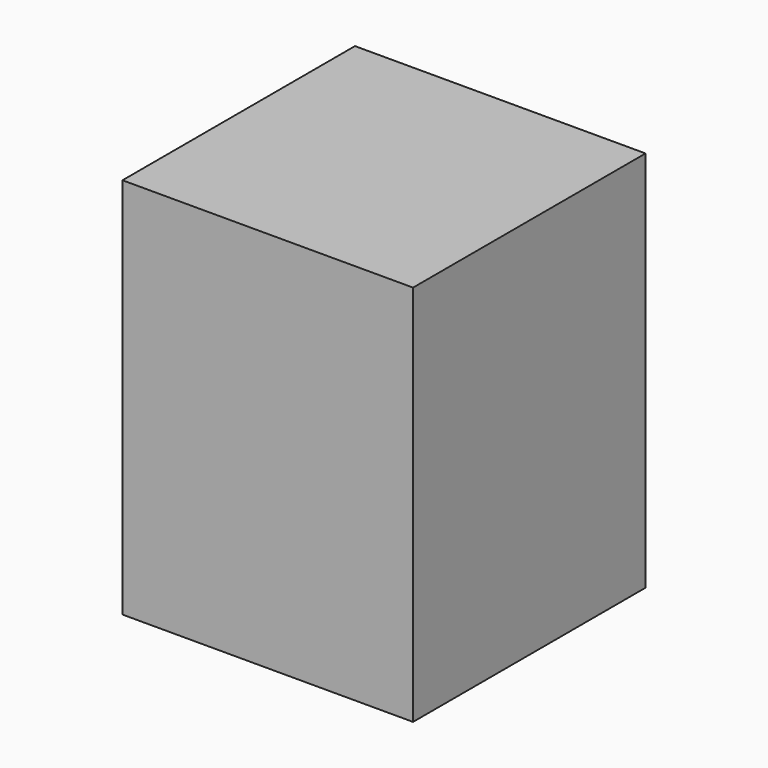
from build123d import *

# Parameters (mm, degrees)
SKETCH_W            = 19
SKETCH_H            = 19
PAD_DEPTH           = 25
PAD001_DEPTH        = 0.4
LINEARPATTERN_COUNT = 2
LINEARPATTERN_PITCH = 12
PAD002_DEPTH        = 0.4


with BuildPart() as part:
    # Sketch → Pad (new body)
    with BuildSketch(Plane.XY):
        Rectangle(SKETCH_W, SKETCH_H)
    extrude(amount=PAD_DEPTH)

    # Sketch001 → Pad001 (join)
    with BuildSketch(Plane.XY):
        with BuildLine():
            Line((-9.183343, 4.331109), (-5.818792, 0.321394))
            ThreePointArc((-5.818792, -0.321394), (-5.701815, 0), (-5.818792, 0.321394))
            Line((-5.818792, -0.321394), (-9.183343, -4.331109))
            ThreePointArc((-9.183343, -4.331109), (-9.299845, -4.674313), (-9.153874, -5.006057))
            Line((-9.153874, -5.006057), (-8.444067, -5.715864))
            ThreePointArc((-8.444067, -5.715864), (-8.068704, -5.861835), (-7.707491, -5.683705))
            Line((-7.707491, -5.683705), (-3.207978, -0.321394))
            ThreePointArc((-3.207978, -0.321394), (-3.091, 0), (-3.207978, 0.321394))
            Line((-3.207978, 0.321394), (-7.707491, 5.683705))
            ThreePointArc((-7.707491, 5.683705), (-8.068704, 5.861835), (-8.444067, 5.715864))
            Line((-8.444067, 5.715864), (-9.153874, 5.006057))
            ThreePointArc((-9.153874, 5.006057), (-9.299845, 4.674313), (-9.183343, 4.331109))
        make_face()
    pad001 = extrude(amount=-PAD001_DEPTH)

    # LinearPattern: Pad001 ×2
    with Locations(*[(i * LINEARPATTERN_PITCH, 0, 0) for i in range(1, LINEARPATTERN_COUNT)]):
        add(pad001)

    # Sketch002 → Pad002 (join)
    with BuildSketch(Plane(origin=(0, 0, 0), x_dir=(1, 0, 0), z_dir=(0, 0, -1))):
        with BuildLine():
            ThreePointArc((-5.15, 6), (-5.503553, 5.853553), (-5.65, 5.5))
            Line((-5.65, 4.5), (-5.65, 5.5))
            ThreePointArc((-5.65, 4.5), (-5.503553, 4.146447), (-5.15, 4))
            Line((1.85, 4), (-5.15, 4))
            ThreePointArc((1.85, 4), (2.203553, 4.146447), (2.35, 4.5))
            Line((2.35, 5.5), (2.35, 4.5))
            ThreePointArc((2.35, 5.5), (2.203553, 5.853553), (1.85, 6))
            Line((-5.15, 6), (1.85, 6))
        make_face()
    extrude(amount=PAD002_DEPTH)


solid = part.part
